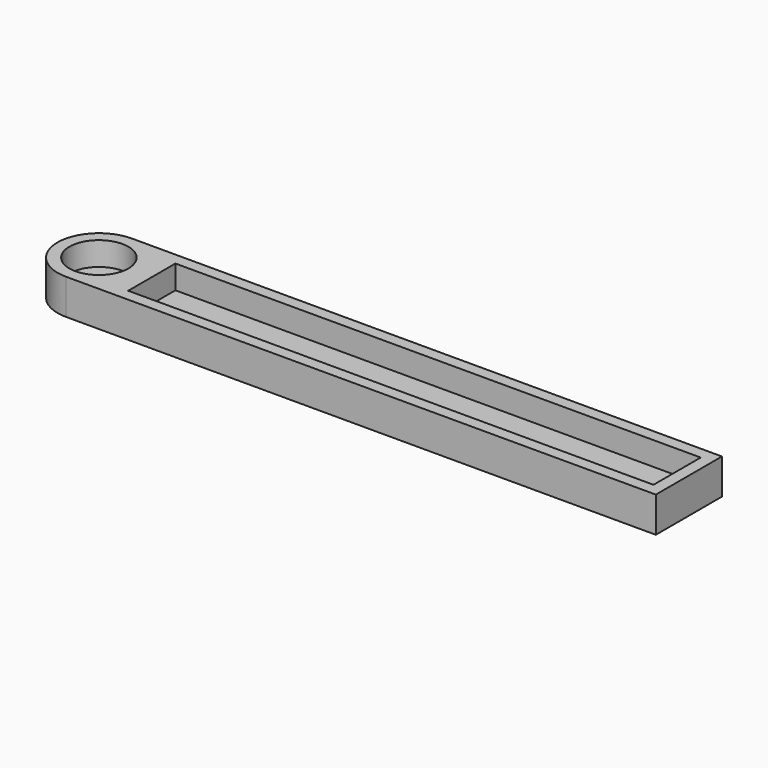
from build123d import *

# Parameters (mm, degrees)
F1_DEPTH = 3
F2_R     = 2.5
F2_W     = 44.516624
F2_H     = 5
F3_DEPTH = 2


with BuildPart() as f1:
    # F0 (on Top) → F1 (new body)
    with BuildSketch(Plane.XY):
        with BuildLine():
            Line((50, 3.5), (0, 3.5))
            ThreePointArc((0, 3.5), (-3.5, 0), (0, -3.5))
            Line((0, -3.5), (50, -3.5))
            Line((50, -3.5), (50, 3.5))
        make_face()
    extrude(amount=F1_DEPTH)

    # F2 (on face) → F3 (cut)
    with BuildSketch(Plane.XY.offset(3)):
        Circle(F2_R)
        with Locations((26.741688, 0)):
            Rectangle(F2_W, F2_H)
    extrude(amount=-F3_DEPTH, mode=Mode.SUBTRACT)


solid = f1.part
